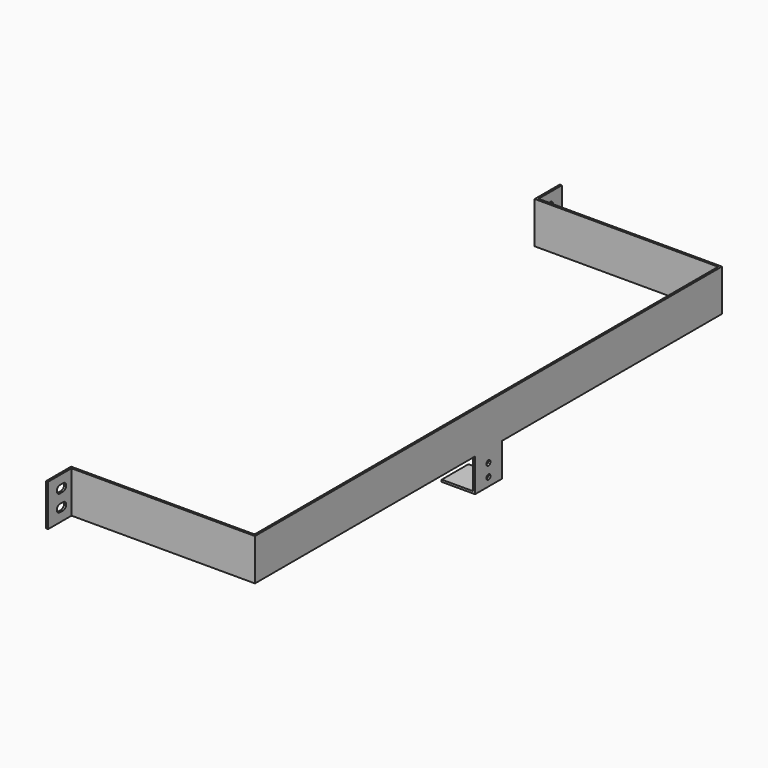
from build123d import *

# Parameters (mm, degrees)
F1_DEPTH  = 50
F2_R      = 3
F3_DEPTH  = 2.5
F5_DEPTH  = 3
F7_DEPTH  = 3
F8_W      = 40
F8_H      = 2.5
F9_DEPTH  = 40
F10_DEPTH = 25


with BuildPart() as f1:
    # F0 (on Top) → F1 (new body)
    with BuildSketch(Plane.XY):
        Polygon((-2.5, 0), (0, 0), (0, 350), (-220, 350), (-220, 385), (-222.5, 385), (-222.5, 347.5), (-2.5, 347.5), align=None)
        Polygon((0, -350), (0, 0), (-2.5, 0), (-2.5, -347.5), (-222.5, -347.5), (-222.5, -385), (-220, -385), (-220, -350), align=None)
    extrude(amount=F1_DEPTH)

    # F2 (on Right) → F3 (join)
    with BuildSketch(Plane.YZ):
        Polygon((20, 0), (0, 0), (-20, 0), (-20, -40), (20, -40), align=None)
        with Locations((0, -30)):
            Circle(F2_R, mode=Mode.SUBTRACT)
        with Locations((0, -15)):
            Circle(F2_R, mode=Mode.SUBTRACT)
    extrude(amount=-F3_DEPTH)

    # F4 (on face) → F5 (cut)
    with BuildSketch(Plane.YZ.offset(-220)):
        with BuildLine():
            Line((-367.324291, 39.496568), (-367.682109, 39.496314))
            ThreePointArc((-367.682109, 39.496314), (-371.999078, 34.908927), (-367.5, 30.5))
            ThreePointArc((-367.5, 30.5), (-366.193757, 30.693757), (-365, 31.258343))
            ThreePointArc((-365, 31.258343), (-366.468627, 32.87868), (-367, 35))
            ThreePointArc((-367, 35), (-366.468627, 37.12132), (-365, 38.741657))
            ThreePointArc((-365, 38.741657), (-366.109918, 39.279915), (-367.324291, 39.496568))
        make_face()
        with BuildLine():
            ThreePointArc((-367.324291, 39.496568), (-367.503202, 39.499999), (-367.682109, 39.496314))
            Line((-367.682109, 39.496314), (-367.324291, 39.496568))
        make_face()
        with BuildLine():
            ThreePointArc((-365, 31.258343), (-366.193757, 30.693757), (-367.5, 30.5))
            Line((-367.5, 30.5), (-362.5, 30.5))
            ThreePointArc((-362.5, 30.5), (-363.806243, 30.693757), (-365, 31.258343))
        make_face()
        with BuildLine():
            Line((-362.503202, 39.499999), (-367.324291, 39.496568))
            ThreePointArc((-367.324291, 39.496568), (-366.109918, 39.279915), (-365, 38.741657))
            ThreePointArc((-365, 38.741657), (-363.807775, 39.305778), (-362.503202, 39.499999))
        make_face()
        with BuildLine():
            ThreePointArc((-363, 35), (-363.531373, 32.87868), (-365, 31.258343))
            ThreePointArc((-365, 31.258343), (-363.806243, 30.693757), (-362.5, 30.5))
            ThreePointArc((-362.5, 30.5), (-359.318019, 31.818019), (-358, 35))
            ThreePointArc((-358, 35), (-359.319152, 38.183112), (-362.503202, 39.499999))
            ThreePointArc((-362.503202, 39.499999), (-363.807775, 39.305778), (-365, 38.741657))
            ThreePointArc((-365, 38.741657), (-363.531373, 37.12132), (-363, 35))
        make_face()
        with BuildLine():
            ThreePointArc((-365, 18.741657), (-366.188395, 19.304613), (-367.488792, 19.499986))
            ThreePointArc((-367.488792, 19.499986), (-371.999046, 15.092651), (-367.674064, 10.503368))
            Line((-367.674064, 10.503368), (-367.325936, 10.503368))
            ThreePointArc((-367.325936, 10.503368), (-366.110701, 10.719831), (-365, 11.258343))
            ThreePointArc((-365, 11.258343), (-366.468627, 12.87868), (-367, 15))
            ThreePointArc((-367, 15), (-366.468627, 17.12132), (-365, 18.741657))
        make_face()
        with BuildLine():
            Line((-362.500013, 19.5), (-367.488792, 19.499986))
            ThreePointArc((-367.488792, 19.499986), (-366.188395, 19.304613), (-365, 18.741657))
            ThreePointArc((-365, 18.741657), (-363.806249, 19.306241), (-362.500013, 19.5))
        make_face()
        with BuildLine():
            Line((-367.325936, 10.503368), (-367.674064, 10.503368))
            ThreePointArc((-367.674064, 10.503368), (-367.5, 10.5), (-367.325936, 10.503368))
        make_face()
        with BuildLine():
            ThreePointArc((-362.500013, 19.5), (-363.806249, 19.306241), (-365, 18.741657))
            ThreePointArc((-365, 18.741657), (-363.531373, 17.12132), (-363, 15))
            ThreePointArc((-363, 15), (-363.531373, 12.87868), (-365, 11.258343))
            ThreePointArc((-365, 11.258343), (-363.889299, 10.719831), (-362.674064, 10.503368))
            Line((-362.674064, 10.503368), (-362.325936, 10.503368))
            ThreePointArc((-362.325936, 10.503368), (-359.257062, 11.880167), (-358, 15))
            ThreePointArc((-358, 15), (-359.318024, 18.181985), (-362.500013, 19.5))
        make_face()
        with BuildLine():
            ThreePointArc((-365, 11.258343), (-366.110701, 10.719831), (-367.325936, 10.503368))
            Line((-367.325936, 10.503368), (-362.674064, 10.503368))
            ThreePointArc((-362.674064, 10.503368), (-363.889299, 10.719831), (-365, 11.258343))
        make_face()
        with BuildLine():
            Line((-362.325936, 10.503368), (-362.674064, 10.503368))
            ThreePointArc((-362.674064, 10.503368), (-362.5, 10.5), (-362.325936, 10.503368))
        make_face()
        with BuildLine():
            ThreePointArc((-363, 35), (-363.531373, 37.12132), (-365, 38.741657))
            ThreePointArc((-365, 38.741657), (-366.468627, 37.12132), (-367, 35))
            Line((-367, 35), (-363, 35))
        make_face()
        with BuildLine():
            ThreePointArc((-365, 11.258343), (-363.531373, 12.87868), (-363, 15))
            Line((-363, 15), (-367, 15))
            ThreePointArc((-367, 15), (-366.468627, 12.87868), (-365, 11.258343))
        make_face()
        with BuildLine():
            ThreePointArc((-363, 15), (-363.531373, 17.12132), (-365, 18.741657))
            ThreePointArc((-365, 18.741657), (-366.468627, 17.12132), (-367, 15))
            Line((-367, 15), (-363, 15))
        make_face()
        with BuildLine():
            ThreePointArc((-367, 35), (-366.468627, 32.87868), (-365, 31.258343))
            ThreePointArc((-365, 31.258343), (-363.531373, 32.87868), (-363, 35))
            Line((-363, 35), (-367, 35))
        make_face()
    extrude(amount=-F5_DEPTH, mode=Mode.SUBTRACT)

    # F6 (on face) → F7 (cut)
    with BuildSketch(Plane.YZ.offset(-220)):
        with BuildLine():
            Line((362.951623, 30.52272), (367.951623, 30.52272))
            ThreePointArc((367.951623, 30.52272), (372, 35), (367.951623, 39.47728))
            Line((367.951623, 39.47728), (362.951623, 39.47728))
            ThreePointArc((362.951623, 39.47728), (358, 35), (362.951623, 30.52272))
        make_face()
        with BuildLine():
            Line((368.176887, 10.5512), (366.903754, 10.539676))
            ThreePointArc((366.903754, 10.539676), (367.54073, 10.500184), (368.176887, 10.5512))
        make_face()
        with BuildLine():
            Line((362.54073, 10.500184), (366.903754, 10.539676))
            Line((366.903754, 10.539676), (368.176887, 10.5512))
            ThreePointArc((368.176887, 10.5512), (372, 15), (368.176887, 19.4488))
            Line((368.176887, 19.4488), (362.54073, 19.499816))
            ThreePointArc((362.54073, 19.499816), (358, 15), (362.54073, 10.500184))
        make_face()
    extrude(amount=-F7_DEPTH, mode=Mode.SUBTRACT)

    # F8 (on face) → F9 (join)
    with BuildSketch(Plane.YZ):
        with Locations((0, -38.75)):
            Rectangle(F8_W, F8_H)
    extrude(amount=-F9_DEPTH)

    # F6 (on face) → F10 (cut)
    with BuildSketch(Plane.YZ.offset(-220)):
        with BuildLine():
            Line((362.951623, 30.52272), (367.951623, 30.52272))
            ThreePointArc((367.951623, 30.52272), (372, 35), (367.951623, 39.47728))
            Line((367.951623, 39.47728), (362.951623, 39.47728))
            ThreePointArc((362.951623, 39.47728), (358, 35), (362.951623, 30.52272))
        make_face()
        with BuildLine():
            Line((368.176887, 10.5512), (366.903754, 10.539676))
            ThreePointArc((366.903754, 10.539676), (367.54073, 10.500184), (368.176887, 10.5512))
        make_face()
        with BuildLine():
            Line((362.54073, 10.500184), (366.903754, 10.539676))
            Line((366.903754, 10.539676), (368.176887, 10.5512))
            ThreePointArc((368.176887, 10.5512), (372, 15), (368.176887, 19.4488))
            Line((368.176887, 19.4488), (362.54073, 19.499816))
            ThreePointArc((362.54073, 19.499816), (358, 15), (362.54073, 10.500184))
        make_face()
    extrude(amount=-F10_DEPTH, mode=Mode.SUBTRACT)


solid = f1.part
